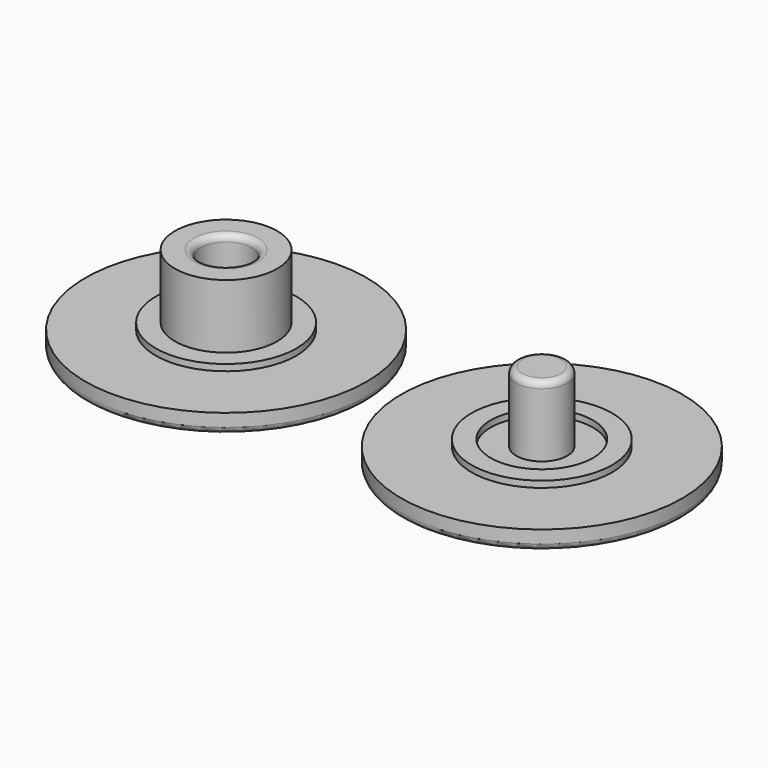
from build123d import *

# Parameters (mm, degrees)
F0_R     = 11
F0_R_2   = 5.5
F1_DEPTH = 1.5
F0_R_3   = 4
F2_DEPTH = 2
F0_R_4   = 2
F3_DEPTH = 7
F4_DEPTH = 1.5
F5_R     = 0.5
F5_2_R   = 0.5
F6_R     = 0.5
F6_2_R   = 0.5


with BuildPart() as f1:
    # F0 (on Top) → F1 (new body)
    with BuildSketch(Plane.XY):
        Circle(F0_R)
        Circle(F0_R_2, mode=Mode.SUBTRACT)
    extrude(amount=F1_DEPTH)

    # F0 (on Top) → F2 (join)
    with BuildSketch(Plane.XY):
        Circle(F0_R_2)
        Circle(F0_R_3, mode=Mode.SUBTRACT)
    extrude(amount=F2_DEPTH)

    # F0 (on Top) → F3 (join)
    with BuildSketch(Plane.XY):
        Circle(F0_R_3)
        Circle(F0_R_4, mode=Mode.SUBTRACT)
    extrude(amount=F3_DEPTH)

    # F0 (on Top) → F4 (join)
    with BuildSketch(Plane.XY):
        Circle(F0_R_4)
    extrude(amount=F4_DEPTH)

    # F5
    f5_edges = [f1.edges().sort_by_distance(p)[0] for p in [
        (-2, 0, 7),
    ]]
    fillet(f5_edges, radius=F5_R)

    # F6#2
    f6_2_edges = [f1.edges().sort_by_distance(p)[0] for p in [
        (-11, 0, 0),
    ]]
    fillet(f6_2_edges, radius=F6_2_R)


with BuildPart() as f1b:
    # F0 (on Top) → F1, piece 2 (new body)
    with BuildSketch(Plane.XY):
        with Locations((24.6943037211, 0)):
            Circle(F0_R)
        with Locations((24.6943037211, 0)):
            Circle(F0_R_2, mode=Mode.SUBTRACT)
    extrude(amount=F1_DEPTH)

    # F0 (on Top) → F2, piece 2 (join)
    with BuildSketch(Plane.XY):
        with Locations((24.6943037211, 0)):
            Circle(F0_R_2)
        with Locations((24.6943037211, 0)):
            Circle(F0_R_3, mode=Mode.SUBTRACT)
    extrude(amount=F2_DEPTH)



with BuildPart() as f3:
    # F0 (on Top) → F3, piece 2 (new body)
    with BuildSketch(Plane.XY):
        with Locations((24.6943037211, 0)):
            Circle(F0_R_4)
    extrude(amount=F3_DEPTH)


with BuildPart() as f1b_1:
    add(f1b.part)

    add(f3.part)  # F4#2 merges F3
    # F0 (on Top) → F4, piece 2 (join)
    with BuildSketch(Plane.XY):
        with Locations((24.6943037211, 0)):
            Circle(F0_R_3)
        with Locations((24.6943037211, 0)):
            Circle(F0_R_4, mode=Mode.SUBTRACT)
    extrude(amount=F4_DEPTH)

    # F5#2
    f5_2_edges = [f1b_1.edges().sort_by_distance(p)[0] for p in [
        (22.694304, 0, 7),
    ]]
    fillet(f5_2_edges, radius=F5_2_R)

    # F6
    f6_edges = [f1b_1.edges().sort_by_distance(p)[0] for p in [
        (13.694304, 0, 0),
    ]]
    fillet(f6_edges, radius=F6_R)


solid = Compound([f1.part, f1b_1.part])
